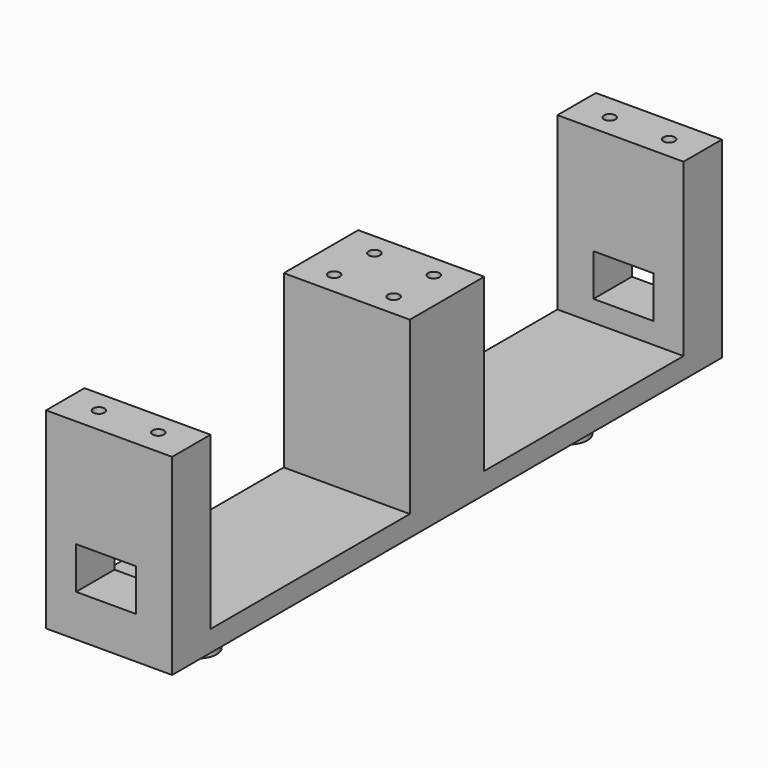
from build123d import *

# Parameters (mm, degrees)
CYLINDER022_R             = 0.95
CYLINDER022_DEPTH         = 10
CYLINDER023_R             = 0.95
CYLINDER023_DEPTH         = 10
CYLINDER020_R             = 0.95
CYLINDER020_DEPTH         = 10
CYLINDER021_R             = 0.95
CYLINDER021_DEPTH         = 10
BOX004_W                  = 10
BOX004_H                  = 10
BOX004_DEPTH              = 7
PAD007_DEPTH              = 21
CYLINDER019_R             = 3
CYLINDER019_DEPTH         = 10
CYLINDER027_R             = 0.95
CYLINDER027_DEPTH         = 10
CYLINDER028_R             = 0.95
CYLINDER028_DEPTH         = 10
CYLINDER025_R             = 0.95
CYLINDER025_DEPTH         = 10
CYLINDER026_R             = 0.95
CYLINDER026_DEPTH         = 10
BOX005_W                  = 10
BOX005_H                  = 10
BOX005_DEPTH              = 7
PAD008_DEPTH              = 21
CYLINDER024_R             = 3
CYLINDER024_DEPTH         = 10
FUSION022_PLACEMENT_ANGLE = 180


with BuildPart() as cylinder022:
    # Cylinder022 → Cylinder022 (new body)
    with BuildSketch(Plane(origin=(9.9, 0, 0), x_dir=(1, 0, 0), z_dir=(0, 0, 1))):
        Circle(CYLINDER022_R)
    extrude(amount=CYLINDER022_DEPTH)


with BuildPart() as tornillos009:
    # Cylinder023 → Cylinder023 (new body)
    with BuildSketch(Plane.XY):
        Circle(CYLINDER023_R)
    extrude(amount=CYLINDER023_DEPTH)

    # Fusion016: union Cylinder022
    add(cylinder022.part)


with BuildPart() as tornillos009_1:
    # Fusion016 placement: moved
    add(tornillos009.part.moved(Location((5, -24.5, 22))))


with BuildPart() as cylinder020:
    # Cylinder020 → Cylinder020 (new body)
    with BuildSketch(Plane(origin=(9.9, 0, 0), x_dir=(1, 0, 0), z_dir=(0, 0, 1))):
        Circle(CYLINDER020_R)
    extrude(amount=CYLINDER020_DEPTH)


with BuildPart() as fusion017:
    # Cylinder021 → Cylinder021 (new body)
    with BuildSketch(Plane.XY):
        Circle(CYLINDER021_R)
    extrude(amount=CYLINDER021_DEPTH)

    # Fusion015: union Cylinder020
    add(cylinder020.part)


with BuildPart() as fusion017_1:
    # Fusion015 placement: moved
    add(fusion017.part.moved(Location((5, 24.5, 22))))

    # Fusion017: union Tornillos009
    add(tornillos009_1.part)


with BuildPart() as fusion017_2:
    # Fusion017 placement: moved
    add(fusion017_1.part.moved(Location((0.4, 0, 0))))


with BuildPart() as cube004:
    # Box004 → Box004 (new body)
    with BuildSketch(Plane(origin=(5, -29, 7), x_dir=(1, 0, 0), z_dir=(0, 0, 1))):
        with Locations((5, 5)):
            Rectangle(BOX004_W, BOX004_H)
    extrude(amount=BOX004_DEPTH)


with BuildPart() as holder005:
    # Sketch007 → Pad007 (new body)
    with BuildSketch(Plane.YZ):
        Polygon((-28.75, 32), (-28.75, 0), (28.75, 0), (28.75, 32), (20.75, 32), (20.75, 3.5), (-20.75, 3.5), (-20.75, 32), align=None)
    extrude(amount=PAD007_DEPTH)

    # Cut010: cut Cube004
    add(cube004.part, mode=Mode.SUBTRACT)

    # Cut011: cut Fusion017
    add(fusion017_2.part, mode=Mode.SUBTRACT)


with BuildPart() as obj1:
    # Cylinder019 → Cylinder019 (new body)
    with BuildSketch(Plane(origin=(10.5, -10.1, -7), x_dir=(1, 0, 0), z_dir=(0, 0, 1))):
        Circle(CYLINDER019_R)
    extrude(amount=CYLINDER019_DEPTH)

    # Fusion018: union Holder005
    add(holder005.part)


with BuildPart() as cylinder027:
    # Cylinder027 → Cylinder027 (new body)
    with BuildSketch(Plane(origin=(9.9, 0, 0), x_dir=(1, 0, 0), z_dir=(0, 0, 1))):
        Circle(CYLINDER027_R)
    extrude(amount=CYLINDER027_DEPTH)


with BuildPart() as tornillos011:
    # Cylinder028 → Cylinder028 (new body)
    with BuildSketch(Plane.XY):
        Circle(CYLINDER028_R)
    extrude(amount=CYLINDER028_DEPTH)

    # Fusion020: union Cylinder027
    add(cylinder027.part)


with BuildPart() as tornillos011_1:
    # Fusion020 placement: moved
    add(tornillos011.part.moved(Location((5, -24.5, 22))))


with BuildPart() as cylinder025:
    # Cylinder025 → Cylinder025 (new body)
    with BuildSketch(Plane(origin=(9.9, 0, 0), x_dir=(1, 0, 0), z_dir=(0, 0, 1))):
        Circle(CYLINDER025_R)
    extrude(amount=CYLINDER025_DEPTH)


with BuildPart() as fusion021:
    # Cylinder026 → Cylinder026 (new body)
    with BuildSketch(Plane.XY):
        Circle(CYLINDER026_R)
    extrude(amount=CYLINDER026_DEPTH)

    # Fusion019: union Cylinder025
    add(cylinder025.part)


with BuildPart() as fusion021_1:
    # Fusion019 placement: moved
    add(fusion021.part.moved(Location((5, 24.5, 22))))

    # Fusion021: union Tornillos011
    add(tornillos011_1.part)


with BuildPart() as fusion021_2:
    # Fusion021 placement: moved
    add(fusion021_1.part.moved(Location((0.4, 0, 0))))


with BuildPart() as cube005:
    # Box005 → Box005 (new body)
    with BuildSketch(Plane(origin=(5, -29, 7), x_dir=(1, 0, 0), z_dir=(0, 0, 1))):
        with Locations((5, 5)):
            Rectangle(BOX005_W, BOX005_H)
    extrude(amount=BOX005_DEPTH)


with BuildPart() as holder006:
    # Sketch008 → Pad008 (new body)
    with BuildSketch(Plane.YZ):
        Polygon((-28.75, 32), (-28.75, 0), (28.75, 0), (28.75, 32), (20.75, 32), (20.75, 3.5), (-20.75, 3.5), (-20.75, 32), align=None)
    extrude(amount=PAD008_DEPTH)

    # Cut012: cut Cube005
    add(cube005.part, mode=Mode.SUBTRACT)

    # Cut013: cut Fusion021
    add(fusion021_2.part, mode=Mode.SUBTRACT)


with BuildPart() as fusion023:
    # Cylinder024 → Cylinder024 (new body)
    with BuildSketch(Plane(origin=(10.5, -10.1, -7), x_dir=(1, 0, 0), z_dir=(0, 0, 1))):
        Circle(CYLINDER024_R)
    extrude(amount=CYLINDER024_DEPTH)

    # Fusion022: union Holder006
    add(holder006.part)


with BuildPart() as fusion023_1:
    # Fusion022 placement: moved
    add(fusion023.part.moved(Location((21, 57, 0))).rotate(Axis((21, 57, 0), (0, 0, 1)), FUSION022_PLACEMENT_ANGLE))

    # Fusion023: union obj1
    add(obj1.part)


solid = fusion023_1.part
